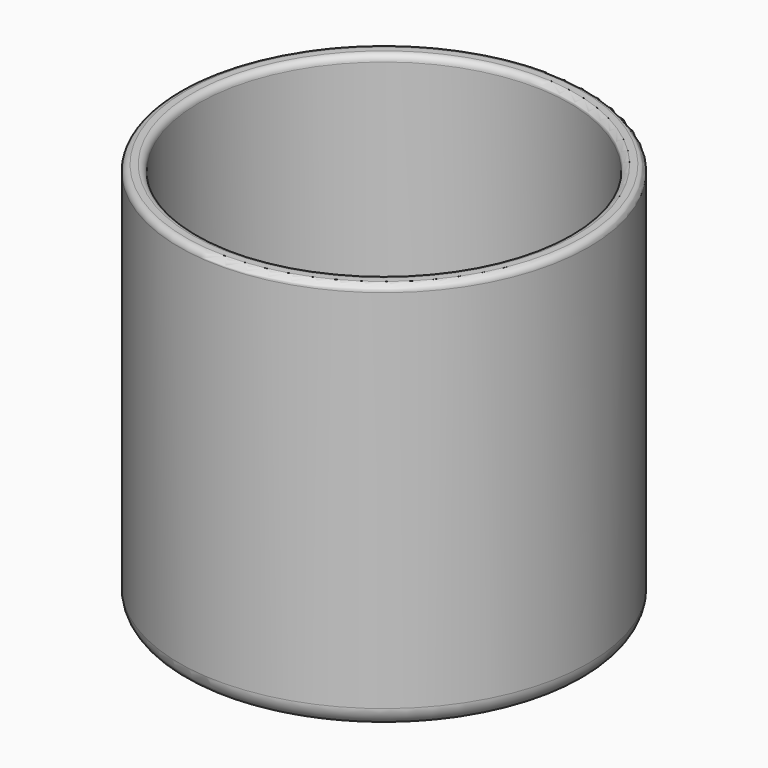
from build123d import *

# Parameters (mm, degrees)
F2_R = 1
F3_R = 1


with BuildPart() as f1:
    # F0 (on Front) → F1 (revolve)
    with BuildSketch(Plane.XZ):
        with BuildLine():
            Line((25.776508, -31.088909), (0, -31.088909))
            Line((0, -31.088909), (0, -34.088909))
            Line((0, -34.088909), (28.776508, -34.088909))
            ThreePointArc((28.776508, -34.088909), (30.897828, -33.210229), (31.776508, -31.088909))
            Line((31.776508, -31.088909), (31.776508, 26.721045))
            Line((31.776508, 26.721045), (28.776508, 26.721045))
            Line((28.776508, 26.721045), (28.776508, -28.088909))
            ThreePointArc((28.776508, -28.088909), (27.897828, -30.210229), (25.776508, -31.088909))
        make_face()
    revolve(axis=Axis((0, 0, -7.964928), (0, 0, -1)))

    # F2
    f2_edges = [f1.edges().sort_by_distance(p)[0] for p in [
        (-28.776508, 0, 26.721045),
    ]]
    fillet(f2_edges, radius=F2_R)

    # F3
    f3_edges = [f1.edges().sort_by_distance(p)[0] for p in [
        (-31.776508, 0, 26.721045),
    ]]
    fillet(f3_edges, radius=F3_R)


solid = f1.part
